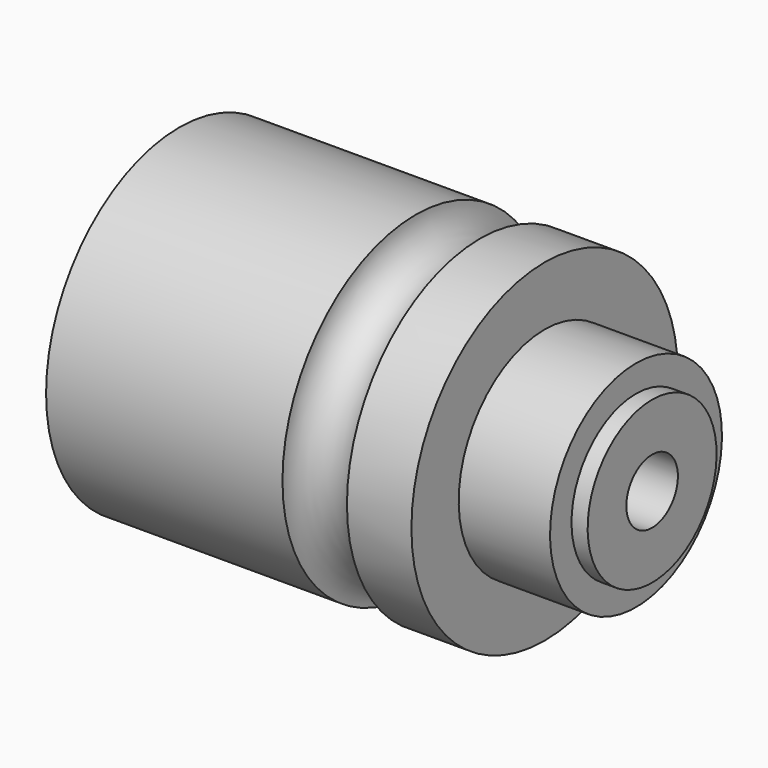
from build123d import *


with BuildPart() as f1:
    # F0 (on Front) → F1 (revolve)
    with BuildSketch(Plane.XZ):
        with BuildLine():
            Line((0, 787.4), (0, 0))
            Line((0, 0), (2235.2, 0))
            Line((2235.2, 0), (2235.2, 381))
            Line((2235.2, 381), (2159, 381))
            Line((2159, 381), (2159, 508))
            Line((2159, 508), (1727.2, 508))
            Line((1727.2, 508), (1727.2, 787.4))
            Line((1727.2, 787.4), (1422.4, 787.4))
            ThreePointArc((1422.4, 787.4), (1270, 635), (1117.6, 787.4))
            Line((1117.6, 787.4), (0, 787.4))
        make_face()
    revolve(axis=Axis((1417.530537, 0, 0), (1, 0, 0)))

    # F2 (on Front) → F3 (revolve, cut)
    with BuildSketch(Plane.XZ):
        Polygon((38.1, 635), (0, 635), (0, 0), (2235.2, 0), (2235.2, 152.4), (711.2, 152.4), (711.2, 406.4), (558.8, 406.4), (558.8, 520.7), (381, 520.7), (381, 317.5), (304.8, 317.5), (304.8, 406.4), (38.1, 406.4), align=None)
    revolve(axis=Axis((-223.787082, 0, 0), (-1, 0, 0)), mode=Mode.SUBTRACT)


solid = f1.part
